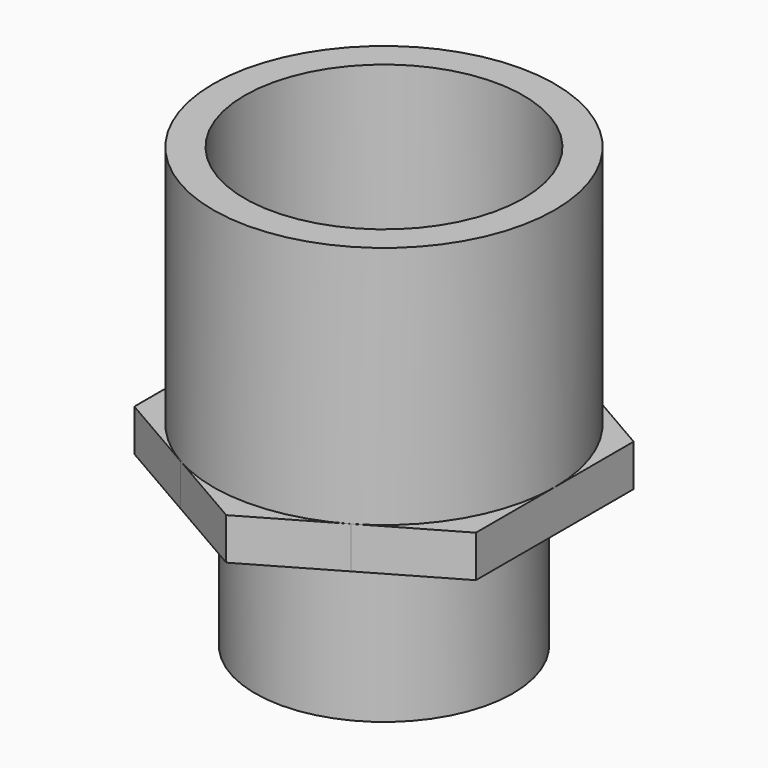
from build123d import *

# Parameters (mm, degrees)
F3_DEPTH = 6


with BuildPart() as f1:
    # F0 (on Front) → F1 (revolve)
    with BuildSketch(Plane.XZ):
        Polygon((-18.5, 0), (-16, 0), (-16, 22), (-20, 28), (-20, 63), (-24.5, 63), (-24.5, 28), (-24.5, 22), (-18.5, 22), align=None)
    revolve(axis=Axis((0, 0, 64.797089), (0, 0, 1)))

    # F2 (on face) → F3 (join)
    with BuildSketch(Plane(origin=(0, 0, 22), x_dir=(1, 0, 0), z_dir=(0, 0, -1))):
        with BuildLine():
            Line((24.5, -14.145082), (24.5, 0))
            ThreePointArc((24.5, 0), (21.217622, -12.25), (12.25, -21.217622))
            Line((12.25, -21.217622), (24.5, -14.145082))
        make_face()
        with BuildLine():
            ThreePointArc((12.25, 21.217622), (21.217622, 12.25), (24.5, 0))
            Line((24.5, 0), (24.5, 14.145082))
            Line((24.5, 14.145082), (12.25, 21.217622))
        make_face()
        with BuildLine():
            ThreePointArc((-12.249999, 21.217623), (0, 24.5), (12.25, 21.217622))
            Line((12.25, 21.217622), (0, 28.290163))
            Line((0, 28.290163), (-12.249999, 21.217623))
        make_face()
        with BuildLine():
            Line((0, -28.290163), (12.25, -21.217622))
            ThreePointArc((12.25, -21.217622), (0, -24.5), (-12.25, -21.217622))
            Line((-12.25, -21.217622), (0, -28.290163))
        make_face()
        with BuildLine():
            ThreePointArc((-24.5, 0), (-21.217622, 12.25), (-12.249999, 21.217623))
            Line((-12.249999, 21.217623), (-24.5, 14.145082))
            Line((-24.5, 14.145082), (-24.5, 0))
        make_face()
        with BuildLine():
            Line((-24.5, -14.145082), (-12.25, -21.217622))
            ThreePointArc((-12.25, -21.217622), (-21.217622, -12.25), (-24.5, 0))
            Line((-24.5, 0), (-24.5, -14.145082))
        make_face()
    extrude(amount=-F3_DEPTH)

    # F4 (on Front) → F5 (revolve, cut)
    with BuildSketch(Plane.XZ):
        Polygon((-20, 28), (-16, 22), (0, 22), (0, 28), (-12.25, 28), align=None)
    revolve(axis=Axis((0, 0, 34.552477), (0, 0, 1)), mode=Mode.SUBTRACT)


solid = f1.part
